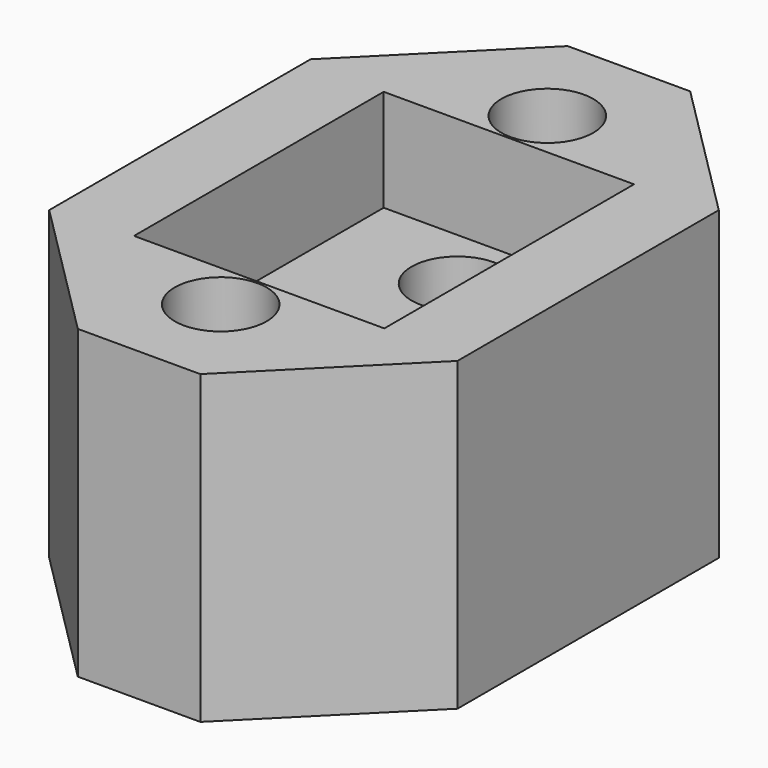
from build123d import *

# Parameters (mm, degrees)
F0_W     = 20
F0_H     = 30
F1_DEPTH = 10
F2_W     = 20
F2_H     = 30
F3_DEPTH = 5
F4_SIZE  = 7


with BuildPart() as f1:
    # F0 (on Top) → F1 (new body)
    with BuildSketch(Plane.XY):
        Rectangle(F0_W, F0_H)
        with BuildLine():
            ThreePointArc((2.25, -10), (-1.5909902577, -11.5909902577), (0, -7.75))
            ThreePointArc((0, -7.75), (1.5909902577, -8.4090097423), (2.25, -10))
        make_face(mode=Mode.SUBTRACT)
        with BuildLine():
            ThreePointArc((0, -6.75), (-2.25, -4.5), (0, -2.25))
            ThreePointArc((0, -2.25), (1.5909902577, -2.9090097423), (2.25, -4.5))
            ThreePointArc((2.25, -4.5), (1.5909902577, -6.0909902577), (0, -6.75))
        make_face(mode=Mode.SUBTRACT)
        with BuildLine():
            ThreePointArc((2.25, 4.5), (1.5909902577, 2.9090097423), (0, 2.25))
            ThreePointArc((0, 2.25), (-2.25, 4.5), (0, 6.75))
            ThreePointArc((0, 6.75), (1.5909902577, 6.0909902577), (2.25, 4.5))
        make_face(mode=Mode.SUBTRACT)
        with BuildLine():
            ThreePointArc((2.25, 10), (1.5909902577, 8.4090097423), (0, 7.75))
            ThreePointArc((0, 7.75), (-1.5909902577, 11.5909902577), (2.25, 10))
        make_face(mode=Mode.SUBTRACT)
    extrude(amount=F1_DEPTH)

    # F2 (on face) → F3 (join)
    with BuildSketch(Plane.XY.offset(10)):
        Rectangle(F2_W, F2_H)
        with BuildLine():
            ThreePointArc((2.25, -10), (-1.5909902577, -11.5909902577), (0, -7.75))
            ThreePointArc((0, -7.75), (1.5909902577, -8.4090097423), (2.25, -10))
        make_face(mode=Mode.SUBTRACT)
        Polygon((0, 7.6447422616), (6.1318632215, 7.6447422616), (6.1318632215, -7.6447422616), (0, -7.6447422616), (-6.1318632215, -7.6447422616), (-6.1318632215, 7.6447422616), align=None, mode=Mode.SUBTRACT)
        with BuildLine():
            ThreePointArc((2.25, 10), (1.5909902577, 8.4090097423), (0, 7.75))
            ThreePointArc((0, 7.75), (-1.5909902577, 11.5909902577), (2.25, 10))
        make_face(mode=Mode.SUBTRACT)
    extrude(amount=F3_DEPTH)

    # F4
    f4_edges = [f1.edges().sort_by_distance(p)[0] for p in [
        (-10, 15, 7.5),
        (-10, -15, 7.5),
        (10, 15, 7.5),
        (10, -15, 7.5),
    ]]
    chamfer(f4_edges, length=F4_SIZE)


solid = f1.part
